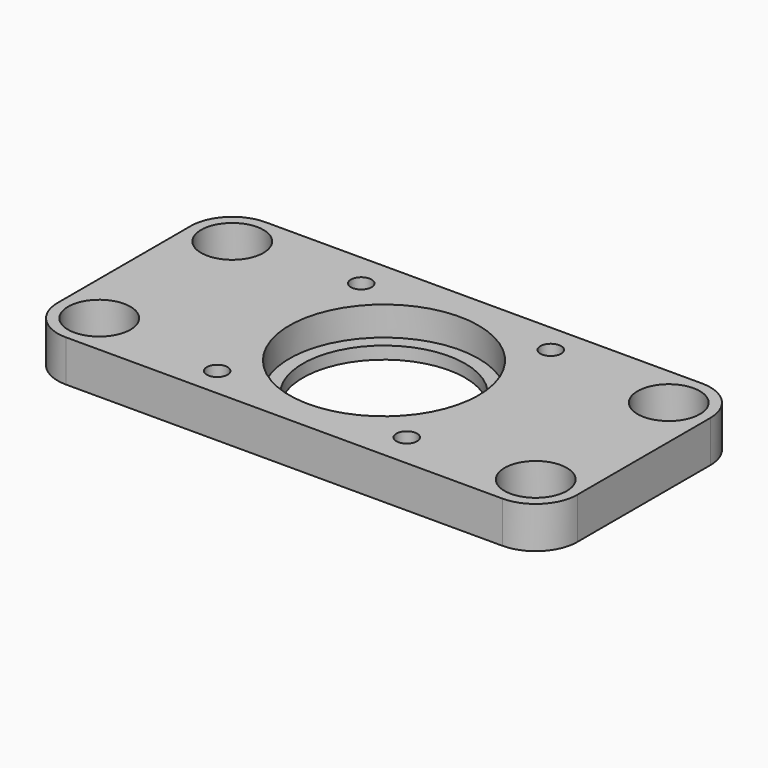
from build123d import *

# Parameters (mm, degrees)
CYLINDER065_R            = 0.5
CYLINDER065_DEPTH        = 10
ARRAY016_COUNT           = 4
ARRAY016_PLACEMENT_ANGLE = 28
CYLINDER060_R            = 4.55
CYLINDER060_DEPTH        = 10
CYLINDER059_R            = 3.9
CYLINDER059_DEPTH        = 10
CYLINDER063_R            = 1.5
CYLINDER063_DEPTH        = 10
ARRAY018_X_COUNT         = 2
ARRAY018_X_PITCH         = 21
ARRAY018_Y_COUNT         = 2
ARRAY018_Y_PITCH         = 8
BOX008_W                 = 25
BOX008_H                 = 12
BOX008_DEPTH             = 2
FILLET008_R              = 2


with BuildPart() as array016:
    # Cylinder065 → Cylinder065 (new body)
    with BuildSketch(Plane(origin=(6, 2, 0), x_dir=(1, 0, 0), z_dir=(0, 0, 1))):
        Circle(CYLINDER065_R)
    extrude(amount=CYLINDER065_DEPTH)

    # Array016: Array016 ×4 about axis
    array016_axis = Axis((0, 0, 0), (0, 0, 1))


with BuildPart() as array016_1:
    add(array016.part)
    for i in range(1, ARRAY016_COUNT):
        add(array016.part.rotate(array016_axis, i * 360 / ARRAY016_COUNT))


with BuildPart() as array016_2:
    # Array016 placement: moved
    add(array016_1.part.rotate(Axis((0, 0, 0), (0, 0, 1)), ARRAY016_PLACEMENT_ANGLE))


with BuildPart() as mountplatelip005:
    # Cylinder060 → Cylinder060 (new body)
    with BuildSketch(Plane.XY.offset(0.6)):
        Circle(CYLINDER060_R)
    extrude(amount=CYLINDER060_DEPTH)


with BuildPart() as mountplateinnerhole004:
    # Cylinder059 → Cylinder059 (new body)
    with BuildSketch(Plane.XY):
        Circle(CYLINDER059_R)
    extrude(amount=CYLINDER059_DEPTH)


with BuildPart() as fusion020:
    # Cylinder063 → Cylinder063 (new body)
    with BuildSketch(Plane.XY):
        Circle(CYLINDER063_R)
    extrude(amount=CYLINDER063_DEPTH)

    # Array018 X: Fusion020 ×2


with BuildPart() as fusion020_1:
    add(fusion020.part)
    with Locations(*[(i * ARRAY018_X_PITCH, 0, 0) for i in range(1, ARRAY018_X_COUNT)]):
        add(fusion020.part)

    # Array018 Y: Fusion020 ×2


with BuildPart() as fusion020_2:
    add(fusion020_1.part)
    with Locations(*[(0, i * ARRAY018_Y_PITCH, 0) for i in range(1, ARRAY018_Y_COUNT)]):
        add(fusion020_1.part)


with BuildPart() as fusion020_3:
    # Array018 placement: moved
    add(fusion020_2.part.moved(Location((-10.5, -4, 0))))

    # Fusion020: union Array016, MountPlateLip005, MountPlateInnerHole004
    add(array016_2.part)
    add(mountplatelip005.part)
    add(mountplateinnerhole004.part)


with BuildPart() as backplate:
    # Box008 → Box008 (new body)
    with BuildSketch(Plane(origin=(-12.5, -6, 0), x_dir=(1, 0, 0), z_dir=(0, 0, 1))):
        with Locations((12.5, 6)):
            Rectangle(BOX008_W, BOX008_H)
    extrude(amount=BOX008_DEPTH)

    # Fillet008
    fillet008_edges = [backplate.edges().sort_by_distance(p)[0] for p in [
        (-12.5, -6, 1),
        (-12.5, 6, 1),
        (12.5, -6, 1),
        (12.5, 6, 1),
    ]]
    fillet(fillet008_edges, radius=FILLET008_R)

    # Cut023: cut Fusion020
    add(fusion020_3.part, mode=Mode.SUBTRACT)


with BuildPart() as backplate_1:
    # Cut023 placement: moved
    add(backplate.part.moved(Location((0, 2, 0))))


solid = backplate_1.part
